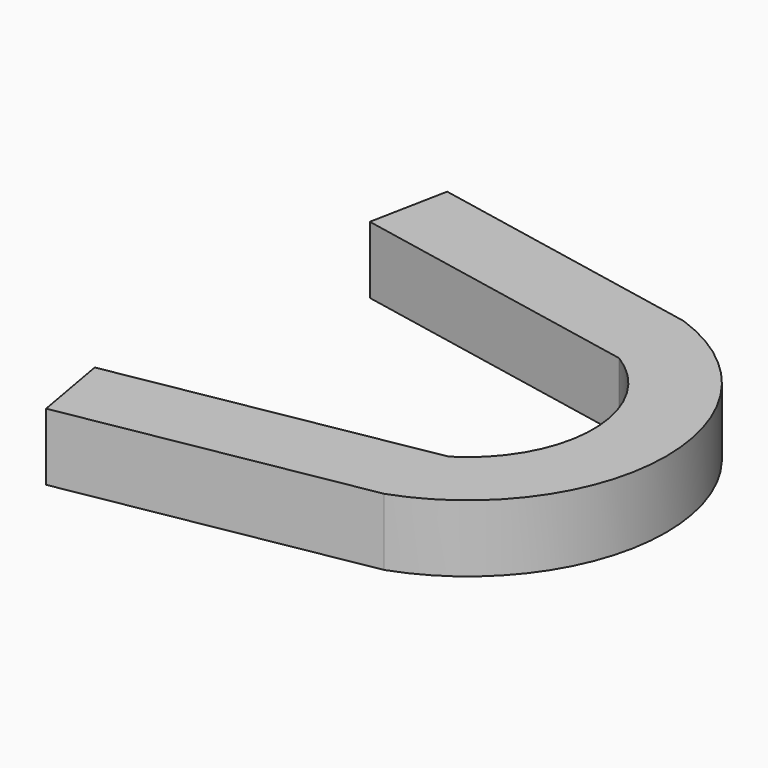
from build123d import *

# Parameters (mm, degrees)
F1_DEPTH = 10


with BuildPart() as f1:
    # F0 (on Top) → F1 (new body)
    with BuildSketch(Plane.XY):
        with BuildLine():
            Line((-34.289124, -35.729976), (9.872127, -27.904433))
            ThreePointArc((9.872127, -27.904433), (29.599262, 0), (9.872127, 27.904433))
            Line((9.872127, 27.904433), (-32.005557, 36.176398))
            Line((-32.005557, 36.176398), (-34.289124, 24.615601))
            Line((-34.289124, 24.615601), (9.872127, 15.892571))
            ThreePointArc((9.872127, 15.892571), (18.709161, 0), (9.872127, -15.892571))
            Line((9.872127, -15.892571), (-36.352868, -24.083817))
            Line((-36.352868, -24.083817), (-34.289124, -35.729976))
        make_face()
    extrude(amount=F1_DEPTH)


solid = f1.part
